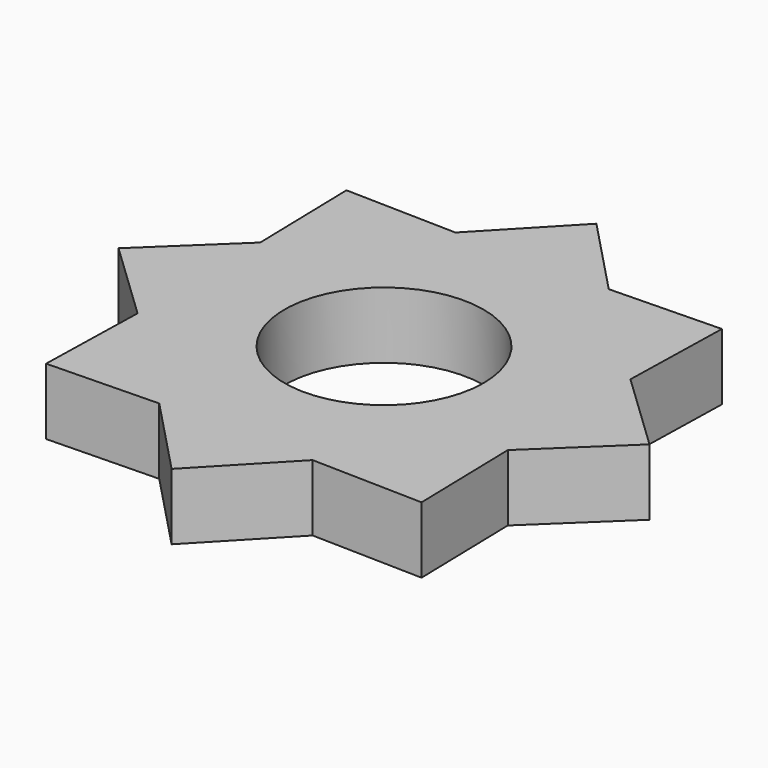
from build123d import *

# Parameters (mm, degrees)
F1_DEPTH = 5
F2_R     = 7.5
F3_DEPTH = 25


with BuildPart() as f1:
    # F0 (on Top) → F1 (new body)
    with BuildSketch(Plane.XY):
        with BuildLine():
            ThreePointArc((13.93824703, 5.5430379513), (14.7321706726, 2.8219049018), (15, 0))
            ThreePointArc((15, 0), (14.7321706726, -2.8219049018), (13.93824703, -5.5430379513))
            Line((13.93824703, -5.5430379513), (13.9437634587, -5.7756959351))
            Line((13.9437634587, -5.7756959351), (20, 0))
            Line((20, 0), (13.9437634587, 5.7756959351))
            Line((13.9437634587, 5.7756959351), (13.93824703, 5.5430379513))
        make_face()
        with BuildLine():
            ThreePointArc((13.7753487165, 5.9363092691), (13.8581929877, 5.7402514855), (13.93824703, 5.5430379513))
            Line((13.93824703, 5.5430379513), (13.9437634587, 5.7756959351))
            Line((13.9437634587, 5.7756959351), (13.7753487165, 5.9363092691))
        make_face()
        with BuildLine():
            Line((13.9437634587, -5.7756959351), (13.93824703, -5.5430379513))
            ThreePointArc((13.93824703, -5.5430379513), (13.8581929877, -5.7402514855), (13.7753487165, -5.9363092691))
            Line((13.7753487165, -5.9363092691), (13.9437634587, -5.7756959351))
        make_face()
        with BuildLine():
            ThreePointArc((5.9363092691, 13.7753487165), (10.6066017178, 10.6066017178), (13.7753487165, 5.9363092691))
            Line((13.7753487165, 5.9363092691), (13.9437634587, 5.7756959351))
            Line((13.9437634587, 5.7756959351), (14.1421356237, 14.1421356237))
            Line((14.1421356237, 14.1421356237), (5.7756959351, 13.9437634587))
            Line((5.7756959351, 13.9437634587), (5.9363092691, 13.7753487165))
        make_face()
        with BuildLine():
            Line((13.9437634587, -5.7756959351), (13.7753487165, -5.9363092691))
            ThreePointArc((13.7753487165, -5.9363092691), (10.6066017178, -10.6066017178), (5.9363092691, -13.7753487165))
            Line((5.9363092691, -13.7753487165), (5.7756959351, -13.9437634587))
            Line((5.7756959351, -13.9437634587), (14.1421356237, -14.1421356237))
            Line((14.1421356237, -14.1421356237), (13.9437634587, -5.7756959351))
        make_face()
        with BuildLine():
            ThreePointArc((5.5430379513, 13.93824703), (5.7402514855, 13.8581929877), (5.9363092691, 13.7753487165))
            Line((5.9363092691, 13.7753487165), (5.7756959351, 13.9437634587))
            Line((5.7756959351, 13.9437634587), (5.5430379513, 13.93824703))
        make_face()
        with BuildLine():
            Line((5.7756959351, -13.9437634587), (5.9363092691, -13.7753487165))
            ThreePointArc((5.9363092691, -13.7753487165), (5.7402514855, -13.8581929877), (5.5430379513, -13.93824703))
            Line((5.5430379513, -13.93824703), (5.7756959351, -13.9437634587))
        make_face()
        with BuildLine():
            ThreePointArc((0, 15), (2.8219049018, 14.7321706726), (5.5430379513, 13.93824703))
            Line((5.5430379513, 13.93824703), (5.7756959351, 13.9437634587))
            Line((5.7756959351, 13.9437634587), (0, 20))
            Line((0, 20), (0, 15))
        make_face()
        with BuildLine():
            Line((5.7756959351, -13.9437634587), (5.5430379513, -13.93824703))
            ThreePointArc((5.5430379513, -13.93824703), (0, -15), (-5.5430379513, -13.93824703))
            Line((-5.5430379513, -13.93824703), (-5.7756959351, -13.9437634587))
            Line((-5.7756959351, -13.9437634587), (0, -20))
            Line((0, -20), (5.7756959351, -13.9437634587))
        make_face()
        with BuildLine():
            ThreePointArc((-5.5430379513, 13.93824703), (-2.8219049018, 14.7321706726), (0, 15))
            Line((0, 15), (0, 20))
            Line((0, 20), (-5.7756959351, 13.9437634587))
            Line((-5.7756959351, 13.9437634587), (-5.5430379513, 13.93824703))
        make_face()
        with BuildLine():
            Line((-5.7756959351, -13.9437634587), (-5.5430379513, -13.93824703))
            ThreePointArc((-5.5430379513, -13.93824703), (-5.7402514855, -13.8581929877), (-5.9363092691, -13.7753487165))
            Line((-5.9363092691, -13.7753487165), (-5.7756959351, -13.9437634587))
        make_face()
        with BuildLine():
            ThreePointArc((-5.9363092691, 13.7753487165), (-5.7402514855, 13.8581929877), (-5.5430379513, 13.93824703))
            Line((-5.5430379513, 13.93824703), (-5.7756959351, 13.9437634587))
            Line((-5.7756959351, 13.9437634587), (-5.9363092691, 13.7753487165))
        make_face()
        with BuildLine():
            Line((-5.9363092691, 13.7753487165), (-5.7756959351, 13.9437634587))
            Line((-5.7756959351, 13.9437634587), (-14.1421356237, 14.1421356237))
            Line((-14.1421356237, 14.1421356237), (-13.9437634587, 5.7756959351))
            Line((-13.9437634587, 5.7756959351), (-13.7753487165, 5.9363092691))
            ThreePointArc((-13.7753487165, 5.9363092691), (-10.6066017178, 10.6066017178), (-5.9363092691, 13.7753487165))
        make_face()
        with BuildLine():
            Line((-5.7756959351, -13.9437634587), (-5.9363092691, -13.7753487165))
            ThreePointArc((-5.9363092691, -13.7753487165), (-10.6066017178, -10.6066017178), (-13.7753487165, -5.9363092691))
            Line((-13.7753487165, -5.9363092691), (-13.9437634587, -5.7756959351))
            Line((-13.9437634587, -5.7756959351), (-14.1421356237, -14.1421356237))
            Line((-14.1421356237, -14.1421356237), (-5.7756959351, -13.9437634587))
        make_face()
        with BuildLine():
            Line((-13.9437634587, -5.7756959351), (-13.7753487165, -5.9363092691))
            ThreePointArc((-13.7753487165, -5.9363092691), (-13.8581929877, -5.7402514855), (-13.93824703, -5.5430379513))
            Line((-13.93824703, -5.5430379513), (-13.9437634587, -5.7756959351))
        make_face()
        with BuildLine():
            ThreePointArc((-13.93824703, 5.5430379513), (-13.8581929877, 5.7402514855), (-13.7753487165, 5.9363092691))
            Line((-13.7753487165, 5.9363092691), (-13.9437634587, 5.7756959351))
            Line((-13.9437634587, 5.7756959351), (-13.93824703, 5.5430379513))
        make_face()
        with BuildLine():
            Line((-13.93824703, 5.5430379513), (-13.9437634587, 5.7756959351))
            Line((-13.9437634587, 5.7756959351), (-20, 0))
            Line((-20, 0), (-13.9437634587, -5.7756959351))
            Line((-13.9437634587, -5.7756959351), (-13.93824703, -5.5430379513))
            ThreePointArc((-13.93824703, -5.5430379513), (-15, 0), (-13.93824703, 5.5430379513))
        make_face()
        with BuildLine():
            ThreePointArc((13.93824703, -5.5430379513), (14.7321706726, -2.8219049018), (15, 0))
            ThreePointArc((15, 0), (14.7321706726, 2.8219049018), (13.93824703, 5.5430379513))
            ThreePointArc((13.93824703, 5.5430379513), (13.8581929877, 5.7402514855), (13.7753487165, 5.9363092691))
            ThreePointArc((13.7753487165, 5.9363092691), (10.6066017178, 10.6066017178), (5.9363092691, 13.7753487165))
            ThreePointArc((5.9363092691, 13.7753487165), (5.7402514855, 13.8581929877), (5.5430379513, 13.93824703))
            ThreePointArc((5.5430379513, 13.93824703), (2.8219049018, 14.7321706726), (0, 15))
            ThreePointArc((0, 15), (-2.8219049018, 14.7321706726), (-5.5430379513, 13.93824703))
            ThreePointArc((-5.5430379513, 13.93824703), (-5.7402514855, 13.8581929877), (-5.9363092691, 13.7753487165))
            ThreePointArc((-5.9363092691, 13.7753487165), (-10.6066017178, 10.6066017178), (-13.7753487165, 5.9363092691))
            ThreePointArc((-13.7753487165, 5.9363092691), (-13.8581929877, 5.7402514855), (-13.93824703, 5.5430379513))
            ThreePointArc((-13.93824703, 5.5430379513), (-15, 0), (-13.93824703, -5.5430379513))
            ThreePointArc((-13.93824703, -5.5430379513), (-13.8581929877, -5.7402514855), (-13.7753487165, -5.9363092691))
            ThreePointArc((-13.7753487165, -5.9363092691), (-10.6066017178, -10.6066017178), (-5.9363092691, -13.7753487165))
            ThreePointArc((-5.9363092691, -13.7753487165), (-5.7402514855, -13.8581929877), (-5.5430379513, -13.93824703))
            ThreePointArc((-5.5430379513, -13.93824703), (0, -15), (5.5430379513, -13.93824703))
            ThreePointArc((5.5430379513, -13.93824703), (5.7402514855, -13.8581929877), (5.9363092691, -13.7753487165))
            ThreePointArc((5.9363092691, -13.7753487165), (10.6066017178, -10.6066017178), (13.7753487165, -5.9363092691))
            ThreePointArc((13.7753487165, -5.9363092691), (13.8581929877, -5.7402514855), (13.93824703, -5.5430379513))
        make_face()
    extrude(amount=F1_DEPTH)

    # F2 (on face) → F3 (cut)
    with BuildSketch(Plane.XY.offset(5)):
        Circle(F2_R)
    extrude(amount=-F3_DEPTH, mode=Mode.SUBTRACT)


solid = f1.part
